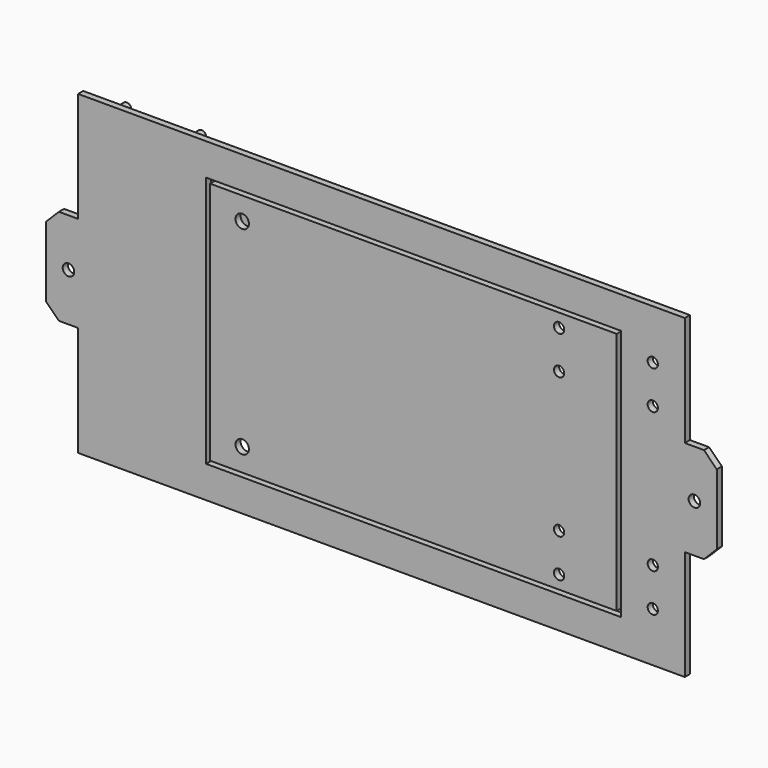
from build123d import *

# Parameters (mm, degrees)
SKETCH_W        = 127
SKETCH_H        = 76.2
PAD_DEPTH       = 2
SKETCH021_R     = 1.6
POCKET010_DEPTH = 2
SKETCH027_W     = 2
SKETCH027_H     = 4
PAD013_DEPTH    = 18
SKETCH028_W     = 2
SKETCH028_H     = 2
PAD014_DEPTH    = 12
CHAMFER001_SIZE = 2
SKETCH029_R     = 2.1
POCKET011_DEPTH = 2
SKETCH001_W     = 189.54
SKETCH001_H     = 98.74
SKETCH001_W_2   = 129.54
SKETCH001_H_2   = 78.74
PAD001_DEPTH    = 2
POCKET_DEPTH    = 1
SKETCH003_W     = 28.8
SKETCH003_H     = 10
PAD002_DEPTH    = 14
SKETCH004_W     = 24.8
SKETCH004_H     = 11
POCKET001_DEPTH = 10
SKETCH005_R     = 1.6
POCKET002_DEPTH = 3
SKETCH006_R     = 1.6
POCKET003_DEPTH = 2
SKETCH007_R     = 1
POCKET004_DEPTH = 0.4
SKETCH008_R     = 1.4
PAD003_DEPTH    = 8
SKETCH009_W     = 30
SKETCH009_H     = 2
PAD004_DEPTH    = 10
SKETCH011_W     = 30
SKETCH011_H     = 2
PAD005_DEPTH    = 10
CHAMFER_SIZE    = 4
SKETCH012_R     = 1.8
POCKET005_DEPTH = 2
SKETCH014_W     = 29
SKETCH014_H     = 30
SKETCH014_R     = 1.6
PAD006_DEPTH    = 3
SKETCH015_W     = 11.6
SKETCH015_H     = 20
POCKET006_DEPTH = 2.6
SKETCH016_R     = 3
SKETCH016_R_2   = 1.4
PAD007_DEPTH    = 3
SKETCH022_W     = 2
SKETCH022_H     = 18
PAD008_DEPTH    = 5
SKETCH023_W     = 2
SKETCH023_H     = 18
PAD009_DEPTH    = 3
PAD010_DEPTH    = 2
SKETCH025_W     = 2
SKETCH025_H     = 5
PAD011_DEPTH    = 20
SKETCH026_W     = 5
SKETCH026_H     = 2
PAD012_DEPTH    = 10


with BuildPart() as door:
    # Sketch → Pad (new body)
    with BuildSketch(Plane.XZ):
        with Locations((0, 38.1)):
            Rectangle(SKETCH_W, SKETCH_H)
    extrude(amount=PAD_DEPTH)

    # Sketch021 (on Face6 of Pad) → Pocket010 (cut)
    with BuildSketch(Plane.XZ.offset(2)):
        with Locations((45.5, 72)):
            Circle(SKETCH021_R)
        with Locations((45.5, 60)):
            Circle(SKETCH021_R)
        with Locations((45.5, 16.2)):
            Circle(SKETCH021_R)
        with Locations((45.5, 4.2)):
            Circle(SKETCH021_R)
    extrude(amount=-POCKET010_DEPTH, mode=Mode.SUBTRACT)

    # Sketch027 (on Face4 of Pocket010) → Pad013 (join)
    with BuildSketch(Plane(origin=(0, 0, 0), x_dir=(1, 0, 0), z_dir=(0, 1, 0))):
        with Locations((-59.5, -36.2)):
            Rectangle(SKETCH027_W, SKETCH027_H)
    extrude(amount=PAD013_DEPTH)

    # Sketch028 (on Face8 of Pad013) → Pad014 (join)
    with BuildSketch(Plane(origin=(0, 0, 38.2), x_dir=(-1, 0, 0), z_dir=(0, 0, 1))):
        with Locations((59.5, -17)):
            Rectangle(SKETCH028_W, SKETCH028_H)
    extrude(amount=PAD014_DEPTH)

    # Chamfer001
    chamfer001_edges = [door.edges().sort_by_distance(p)[0] for p in [
        (-59.5, 18, 34.2),
    ]]
    chamfer(chamfer001_edges, length=CHAMFER001_SIZE)

    # Sketch029 (on Face18 of Chamfer001) → Pocket011 (cut)
    with BuildSketch(Plane.XZ.offset(2)):
        with Locations((-53.5, 69.1)):
            Circle(SKETCH029_R)
        with Locations((-53.5, 7.1)):
            Circle(SKETCH029_R)
    extrude(amount=-POCKET011_DEPTH, mode=Mode.SUBTRACT)


with BuildPart() as frame:
    # Sketch001 → Pad001 (new body)
    with BuildSketch(Plane.XZ):
        with Locations((-10, 38.1)):
            Rectangle(SKETCH001_W, SKETCH001_H)
        with Locations((0, 38.1)):
            Rectangle(SKETCH001_W_2, SKETCH001_H_2, mode=Mode.SUBTRACT)
    extrude(amount=PAD001_DEPTH)

    # Sketch002 (on Face9 of Pad001) → Pocket (cut)
    with BuildSketch(Plane(origin=(0, 0, 0), x_dir=(1, 0, 0), z_dir=(0, 1, 0))):
        Polygon((-99.17, -33.67), (-99.17, -85.47), (-70.37, -85.47), (-70.37, -33.67), (-79.47, -33.67), (-79.47, -0.67), (-90.07, -0.67), (-90.07, -33.67), align=None)
    extrude(amount=-POCKET_DEPTH, mode=Mode.SUBTRACT)

    # Sketch003 (on Face4 of Pocket) → Pad002 (join)
    with BuildSketch(Plane(origin=(0, 0, 0), x_dir=(1, 0, 0), z_dir=(0, 1, 0))):
        with Locations((-84.77, -23.73)):
            Rectangle(SKETCH003_W, SKETCH003_H)
    extrude(amount=PAD002_DEPTH)

    # Sketch004 (on Face14 of Pad002) → Pocket001 (cut)
    with BuildSketch(Plane(origin=(0, 0, 18.73), x_dir=(1, 0, 0), z_dir=(0, 0, -1))):
        with Locations((-84.77, -5.5)):
            Rectangle(SKETCH004_W, SKETCH004_H)
    extrude(amount=-POCKET001_DEPTH, mode=Mode.SUBTRACT)

    # Sketch005 (on Face27 of Pocket001) → Pocket002 (cut)
    with BuildSketch(Plane(origin=(0, 14, 0), x_dir=(1, 0, 0), z_dir=(0, 1, 0))):
        with Locations((-93.57, -23.73)):
            Circle(SKETCH005_R)
        with Locations((-75.97, -23.73)):
            Circle(SKETCH005_R)
    extrude(amount=-POCKET002_DEPTH, mode=Mode.SUBTRACT)

    # Sketch006 (on Face4 of Pocket002) → Pocket003 (cut)
    with BuildSketch(Plane(origin=(0, 0, 0), x_dir=(1, 0, 0), z_dir=(0, 1, 0))):
        with Locations((74.77, -4.23)):
            Circle(SKETCH006_R)
        with Locations((74.77, -16.23)):
            Circle(SKETCH006_R)
        with Locations((74.77, -59.97)):
            Circle(SKETCH006_R)
        with Locations((74.77, -71.97)):
            Circle(SKETCH006_R)
    extrude(amount=-POCKET003_DEPTH, mode=Mode.SUBTRACT)

    # Sketch007 (on Face29 of Pocket003) → Pocket004 (cut)
    with BuildSketch(Plane(origin=(0, -1, 0), x_dir=(1, 0, 0), z_dir=(0, 1, 0))):
        with Locations((-89.17, -55.67)):
            Circle(SKETCH007_R)
        with Locations((-80.37, -55.67)):
            Circle(SKETCH007_R)
    extrude(amount=-POCKET004_DEPTH, mode=Mode.SUBTRACT)

    # Sketch008 (on Face19 of Pocket) → Pad003 (join)
    with BuildSketch(Plane(origin=(0, -1, 0), x_dir=(1, 0, 0), z_dir=(0, 1, 0))):
        with Locations((-96.77, -36.27)):
            Circle(SKETCH008_R)
        with Locations((-73.37, -36.27)):
            Circle(SKETCH008_R)
        with Locations((-96.77, -82.67)):
            Circle(SKETCH008_R)
        with Locations((-73.37, -82.67)):
            Circle(SKETCH008_R)
    extrude(amount=PAD003_DEPTH)

    # Sketch009 (on Face1 of Pad003) → Pad004 (join)
    with BuildSketch(Plane(origin=(-104.77, 0, 0), x_dir=(0, 0, -1), z_dir=(-1, 0, 0))):
        with Locations((-38.1, 1)):
            Rectangle(SKETCH009_W, SKETCH009_H)
    extrude(amount=PAD004_DEPTH)

    # Sketch011 → Pad005 (join)
    with BuildSketch(Plane(origin=(84.77, 0, 0), x_dir=(0, 0, 1), z_dir=(1, 0, 0))):
        with Locations((38.1, 1)):
            Rectangle(SKETCH011_W, SKETCH011_H)
    extrude(amount=PAD005_DEPTH)

    # Chamfer
    chamfer_edges = [frame.edges().sort_by_distance(p)[0] for p in [
        (-114.77, -1, 23.1),
        (-114.77, -1, 53.1),
        (94.77, -1, 23.1),
        (94.77, -1, 53.1),
    ]]
    chamfer(chamfer_edges, length=CHAMFER_SIZE)

    # Sketch012 (on Face5 of Chamfer) → Pocket005 (cut)
    with BuildSketch(Plane(origin=(0, 0, 0), x_dir=(1, 0, 0), z_dir=(0, 1, 0))):
        with Locations((87.77, -38.1)):
            Circle(SKETCH012_R)
        with Locations((-107.77, -38.1)):
            Circle(SKETCH012_R)
    extrude(amount=-POCKET005_DEPTH, mode=Mode.SUBTRACT)


with BuildPart() as motor_controller:
    # Sketch014 → Pad006 (new body)
    with BuildSketch(Plane.XZ):
        with Locations((-84.5, 12)):
            Rectangle(SKETCH014_W, SKETCH014_H)
        with Locations((-76, 23.8)):
            Circle(SKETCH014_R, mode=Mode.SUBTRACT)
        with Locations((-93.6, 23.8)):
            Circle(SKETCH014_R, mode=Mode.SUBTRACT)
    extrude(amount=PAD006_DEPTH)

    # Sketch015 (on Face8 of Pad006) → Pocket006 (cut)
    with BuildSketch(Plane.XZ.offset(3)):
        with Locations((-84.5, 7)):
            Rectangle(SKETCH015_W, SKETCH015_H)
    extrude(amount=-POCKET006_DEPTH, mode=Mode.SUBTRACT)

    # Sketch016 (on Face4 of Pocket006) → Pad007 (join)
    with BuildSketch(Plane(origin=(0, 0, 0), x_dir=(1, 0, 0), z_dir=(0, 1, 0))):
        with Locations((-84.5, -12)):
            Circle(SKETCH016_R)
        with Locations((-84.5, -12)):
            Circle(SKETCH016_R_2, mode=Mode.SUBTRACT)
    extrude(amount=PAD007_DEPTH)

    # Sketch022 (on Face4 of Pad007) → Pad008 (join)
    with BuildSketch(Plane(origin=(0, 0, 0), x_dir=(1, 0, 0), z_dir=(0, 1, 0))):
        with Locations((-96.5, -12)):
            Rectangle(SKETCH022_W, SKETCH022_H)
        with Locations((-72.5, -12)):
            Rectangle(SKETCH022_W, SKETCH022_H)
    extrude(amount=PAD008_DEPTH)

    # Sketch023 (on Face4 of Pad008) → Pad009 (join)
    with BuildSketch(Plane(origin=(0, 0, 0), x_dir=(1, 0, 0), z_dir=(0, 1, 0))):
        with Locations((-94.5, -12)):
            Rectangle(SKETCH023_W, SKETCH023_H)
        with Locations((-74.5, -12)):
            Rectangle(SKETCH023_W, SKETCH023_H)
    extrude(amount=PAD009_DEPTH)


with BuildPart() as motor_controller_1:
    # Body002 placement: moved
    add(motor_controller.part.moved(Location((0, 35, 0))))


with BuildPart() as lock:
    # Sketch024 → Pad010 (new body)
    with BuildSketch(Plane.XZ):
        with BuildLine():
            ThreePointArc((-79.545644, 47.5), (-91, 45), (-79.545644, 42.5))
            Line((-79.545644, 42.5), (-67, 42.5))
            Line((-67, 47.5), (-67, 42.5))
            Line((-79.545644, 47.5), (-67, 47.5))
        make_face()
        with BuildLine():
            Line((-83, 43.112541), (-83, 46.887459))
            ThreePointArc((-83, 46.887459), (-85, 47.75), (-87, 46.887459))
            Line((-87, 43.112541), (-87, 46.887459))
            ThreePointArc((-87, 43.112541), (-85, 42.25), (-83, 43.112541))
        make_face(mode=Mode.SUBTRACT)
    extrude(amount=PAD010_DEPTH)

    # Sketch025 (on Face10 of Pad010) → Pad011 (join)
    with BuildSketch(Plane.XZ.offset(2)):
        with Locations((-68, 45)):
            Rectangle(SKETCH025_W, SKETCH025_H)
    extrude(amount=PAD011_DEPTH)

    # Sketch026 (on Face11 of Pad011) → Pad012 (join)
    with BuildSketch(Plane(origin=(-67, 0, 0), x_dir=(0, 0, 1), z_dir=(1, 0, 0))):
        with Locations((45, 21)):
            Rectangle(SKETCH026_W, SKETCH026_H)
    extrude(amount=PAD012_DEPTH)


with BuildPart() as lock_1:
    # Body003 placement: moved
    add(lock.part.moved(Location((0, 35, 0))))


solid = Compound([door.part, frame.part, motor_controller_1.part, lock_1.part])
